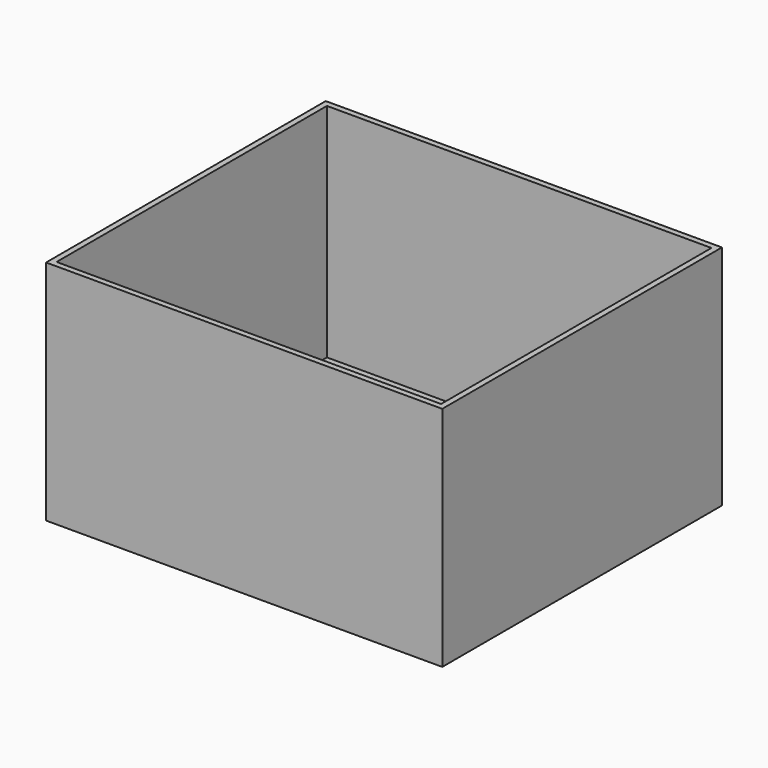
from build123d import *

# Parameters (mm, degrees)
F0_W     = 340
F0_H     = 300
F0_W_2   = 330
F0_H_2   = 290
F1_DEPTH = 195
F2_W     = 330
F2_H     = 290
F3_DEPTH = 190


with BuildPart() as f1:
    # F0 (on Top) → F1 (new body)
    with BuildSketch(Plane.XY):
        with Locations((3.679041, 0)):
            Rectangle(F0_W, F0_H)
        with Locations((3.679041, 0)):
            Rectangle(F0_W_2, F0_H_2, mode=Mode.SUBTRACT)
        with Locations((3.679041, 0)):
            Rectangle(F0_W_2, F0_H_2)
    extrude(amount=F1_DEPTH)

    # F2 (on face) → F3 (cut)
    with BuildSketch(Plane.XY.offset(195)):
        with Locations((3.679041, 0)):
            Rectangle(F2_W, F2_H)
    extrude(amount=-F3_DEPTH, mode=Mode.SUBTRACT)


solid = f1.part
